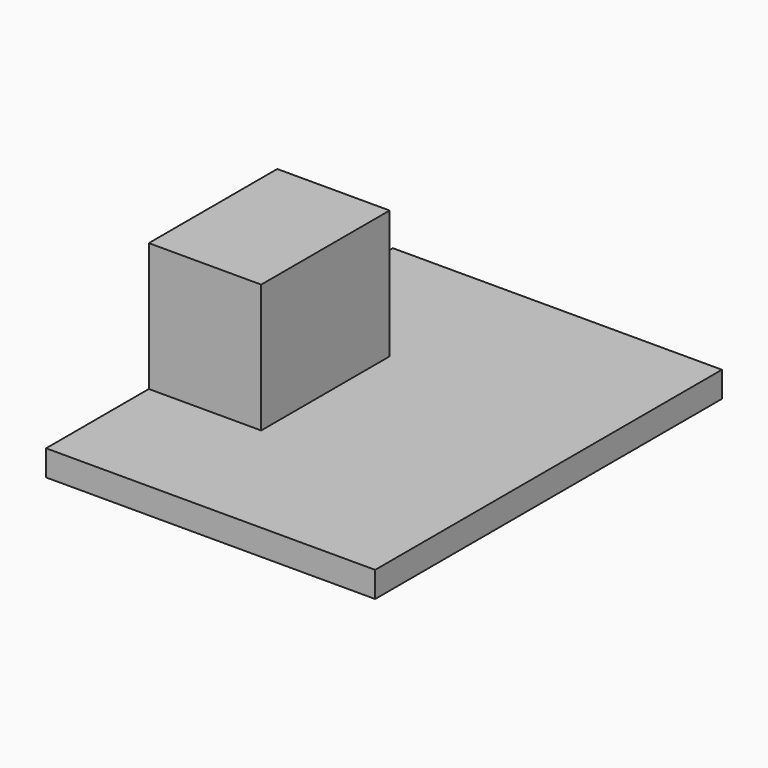
from build123d import *

# Parameters (mm, degrees)
BOX004_W     = 7
BOX004_H     = 10
BOX004_DEPTH = 8
BOX003_W     = 20.5
BOX003_H     = 27
BOX003_DEPTH = 1.6


with BuildPart() as cube004:
    # Box004 → Box004 (new body)
    with BuildSketch(Plane(origin=(0, 8, 1.6), x_dir=(1, 0, 0), z_dir=(0, 0, 1))):
        with Locations((3.5, 5)):
            Rectangle(BOX004_W, BOX004_H)
    extrude(amount=BOX004_DEPTH)


with BuildPart() as obj1:
    # Box003 → Box003 (new body)
    with BuildSketch(Plane.XY):
        with Locations((10.25, 13.5)):
            Rectangle(BOX003_W, BOX003_H)
    extrude(amount=BOX003_DEPTH)

    # Fusion001: union Cube004
    add(cube004.part)


with BuildPart() as obj1_1:
    # Fusion001 placement: moved
    add(obj1.part.moved(Location((21.5, -82.25, 0))))


solid = obj1_1.part
